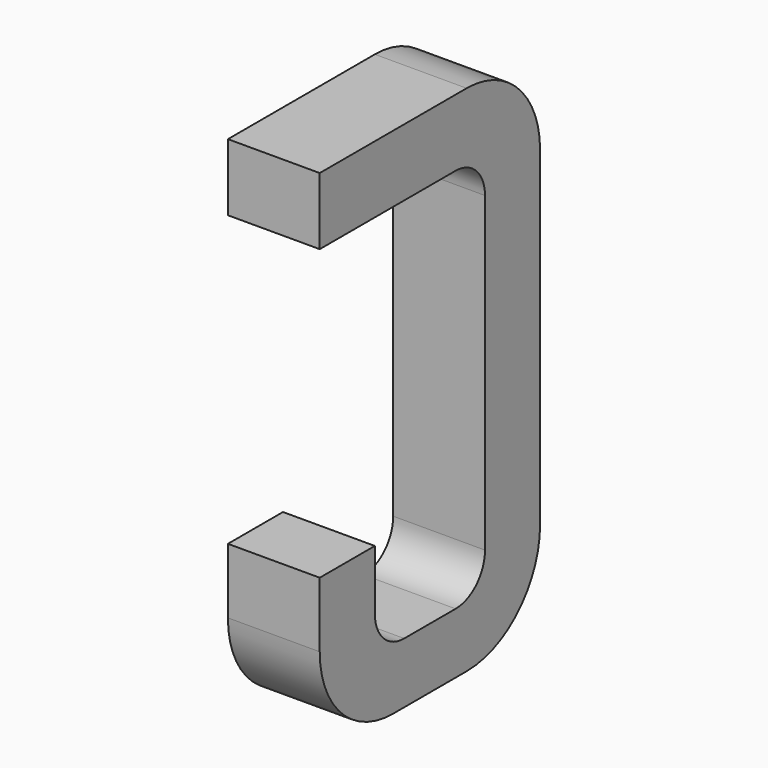
from build123d import *

# Parameters (mm, degrees)
BOX001_W     = 0.5
BOX001_H     = 1.5
BOX001_DEPTH = 2.795
FILLET_R     = 0.5
FILLET001_R  = 0.5
FILLET002_R  = 0.5
BOX002_W     = 0.75
BOX002_H     = 2.1
BOX002_DEPTH = 1
FILLET003_R  = 0.2
FILLET004_R  = 0.2
FILLET005_R  = 0.2
FILLET006_R  = 0.2
BOX003_W     = 1
BOX003_H     = 1.575
BOX003_DEPTH = 3


with BuildPart() as part:
    # Box001 → Box001 (join)
    with BuildSketch(Plane(origin=(-0.25, 11.125, 0), x_dir=(1, 0, 0), z_dir=(0, 0, 1))):
        with Locations((0.25, 0.75)):
            Rectangle(BOX001_W, BOX001_H)
    extrude(amount=BOX001_DEPTH)

    # Fillet
    fillet_edges = [part.edges().sort_by_distance(p)[0] for p in [
        (0, 12.625, 0),
    ]]
    fillet(fillet_edges, radius=FILLET_R)

    # Fillet001
    fillet001_edges = [part.edges().sort_by_distance(p)[0] for p in [
        (0, 12.625, 2.795),
    ]]
    fillet(fillet001_edges, radius=FILLET001_R)

    # Fillet002
    fillet002_edges = [part.edges().sort_by_distance(p)[0] for p in [
        (0, 11.125, 0),
    ]]
    fillet(fillet002_edges, radius=FILLET002_R)

    # Box002 → Box002 (cut)
    with BuildSketch(Plane(origin=(-0.5, 11.5, 0.33), x_dir=(0, 1, 0), z_dir=(1, 0, 0))):
        with Locations((0.375, 1.05)):
            Rectangle(BOX002_W, BOX002_H)
    extrude(amount=BOX002_DEPTH, mode=Mode.SUBTRACT)

    # Fillet003
    fillet003_edges = [part.edges().sort_by_distance(p)[0] for p in [
        (0, 11.5, 0.33),
    ]]
    fillet(fillet003_edges, radius=FILLET003_R)

    # Fillet004
    fillet004_edges = [part.edges().sort_by_distance(p)[0] for p in [
        (0, 12.25, 0.33),
    ]]
    fillet(fillet004_edges, radius=FILLET004_R)

    # Fillet005
    fillet005_edges = [part.edges().sort_by_distance(p)[0] for p in [
        (0, 11.5, 2.43),
    ]]
    fillet(fillet005_edges, radius=FILLET005_R)

    # Fillet006
    fillet006_edges = [part.edges().sort_by_distance(p)[0] for p in [
        (0, 12.25, 2.43),
    ]]
    fillet(fillet006_edges, radius=FILLET006_R)

    # Box003 → Box003 (cut)
    with BuildSketch(Plane(origin=(-1, 11, 0.855), x_dir=(0, 1, 0), z_dir=(1, 0, 0))):
        with Locations((0.5, 0.7875)):
            Rectangle(BOX003_W, BOX003_H)
    extrude(amount=BOX003_DEPTH, mode=Mode.SUBTRACT)


solid = part.part
